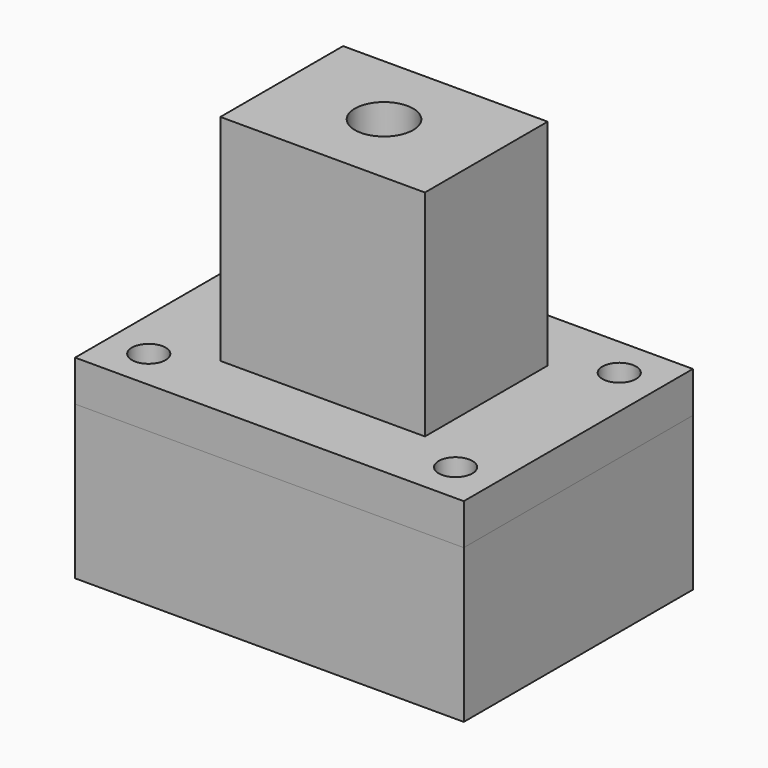
from build123d import *

# Parameters (mm, degrees)
F0_W     = 20
F0_H     = 15
F0_R     = 2.85
F1_DEPTH = 25
F2_W     = 38
F2_H     = 28
F2_R     = 1.65
F2_R_2   = 2.85
F3_DEPTH = 4
F4_W     = 38
F4_H     = 28
F4_R     = 1.65
F5_DEPTH = 15
F6_W     = 28
F6_H     = 0.6
F7_DEPTH = 10
F8_R     = 3.5
F9_DEPTH = 3


with BuildPart() as f1:
    # F0 (on Top) → F1 (new body)
    with BuildSketch(Plane.XY):
        Rectangle(F0_W, F0_H)
        Circle(F0_R, mode=Mode.SUBTRACT)
    extrude(amount=F1_DEPTH)

    # F2 (on face) → F3 (join)
    with BuildSketch(Plane(origin=(0, 0, 0), x_dir=(1, 0, 0), z_dir=(0, 0, -1))):
        Rectangle(F2_W, F2_H)
        with Locations((-15, -10)):
            Circle(F2_R, mode=Mode.SUBTRACT)
        with Locations((15, -10)):
            Circle(F2_R, mode=Mode.SUBTRACT)
        with Locations((-15, 10)):
            Circle(F2_R, mode=Mode.SUBTRACT)
        Circle(F2_R_2, mode=Mode.SUBTRACT)
        with Locations((15, 10)):
            Circle(F2_R, mode=Mode.SUBTRACT)
    extrude(amount=-F3_DEPTH)


with BuildPart() as f5:
    # F4 (on Top) → F5 (new body)
    with BuildSketch(Plane.XY):
        Rectangle(F4_W, F4_H)
        with Locations((-15, -10)):
            Circle(F4_R, mode=Mode.SUBTRACT)
        with Locations((15, -10)):
            Circle(F4_R, mode=Mode.SUBTRACT)
        with BuildLine():
            ThreePointArc((2.078461, 1.95), (0, -2.85), (-2.078461, 1.95))
            Line((-2.078461, 1.95), (2.078461, 1.95))
        make_face(mode=Mode.SUBTRACT)
        with Locations((-15, 10)):
            Circle(F4_R, mode=Mode.SUBTRACT)
        with Locations((15, 10)):
            Circle(F4_R, mode=Mode.SUBTRACT)
    extrude(amount=-F5_DEPTH)

    # F6 (on face) → F7 (cut)
    with BuildSketch(Plane.XY):
        with Locations((0, 2.25)):
            Rectangle(F6_W, F6_H)
    extrude(amount=-F7_DEPTH, mode=Mode.SUBTRACT)

    # F8 (on face) → F9 (cut)
    with BuildSketch(Plane(origin=(0, 0, -15), x_dir=(1, 0, 0), z_dir=(0, 0, -1))):
        with Locations((15, -10)):
            Circle(F8_R)
        with Locations((-15, -10)):
            Circle(F8_R)
        with Locations((-15, 10)):
            Circle(F8_R)
        with Locations((15, 10)):
            Circle(F8_R)
    extrude(amount=-F9_DEPTH, mode=Mode.SUBTRACT)


solid = Compound([f1.part, f5.part])
